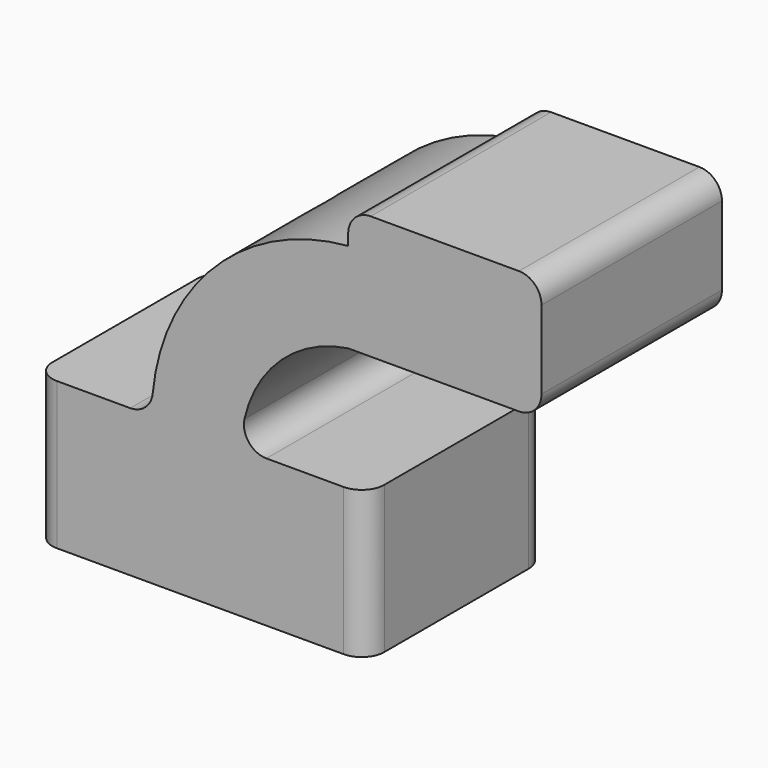
from build123d import *

# Parameters (mm, degrees)
F1_DEPTH = 25.4
F2_R     = 5.08
F3_R     = 5.08
F4_R     = 8.3693802945
F5_DEPTH = 99.314


with BuildPart() as f1:
    # F0 (on Front) → F1 (new body, symmetric)
    with BuildSketch(Plane.XZ):
        Polygon((37.378333509, -16.5805853903), (37.378333509, 16.5805853903), (9.2585918344, 16.5805853903), (-10.9242624321, 16.5805853903), (-37.378333509, 16.5805853903), (-37.378333509, -16.5805853903), align=None)
        with BuildLine():
            Line((-10.9242624321, 16.5805853903), (9.2585918344, 16.5805853903))
            ThreePointArc((9.2585918344, 16.5805853903), (16.1053006485, 34.9702005239), (33.311298198, 44.4046594203))
            Line((33.311298198, 44.4046594203), (33.311298198, 64.7116564196))
            ThreePointArc((33.311298198, 64.7116564196), (1.814383096, 49.2661510986), (-10.9242624321, 16.5805853903))
        make_face()
        with BuildLine():
            Line((33.311298198, 72.2287222743), (33.311298198, 64.7116564196))
            ThreePointArc((33.311298198, 64.7116564196), (57.7910346378, 60.35800431), (76.8620222807, 44.4046594203))
            Line((76.8620222807, 44.4046594203), (76.8620222807, 72.2287222743))
            Line((76.8620222807, 72.2287222743), (33.311298198, 72.2287222743))
        make_face()
        with BuildLine():
            Line((33.311298198, 64.7116564196), (33.311298198, 44.4046594203))
            Line((33.311298198, 44.4046594203), (76.8620222807, 44.4046594203))
            ThreePointArc((76.8620222807, 44.4046594203), (57.7910346378, 60.35800431), (33.311298198, 64.7116564196))
        make_face()
    extrude(amount=F1_DEPTH, both=True)

    # F2
    f2_edges = [f1.edges().sort_by_distance(p)[0] for p in [
        (-37.378334, -25.4, 0),
        (37.378334, -25.4, 0),
        (37.378334, 25.4, 0),
        (-37.378334, 25.4, 0),
    ]]
    fillet(f2_edges, radius=F2_R)

    # F3
    f3_edges = [f1.edges().sort_by_distance(p)[0] for p in [
        (9.258592, 0, 16.580585),
        (-10.924262, 0, 16.580585),
        (33.311298, 0, 72.228722),
        (76.862022, 0, 72.228722),
        (76.862022, 0, 44.404659),
    ]]
    fillet(f3_edges, radius=F3_R)

    # F4 (on face) → F5 (cut)
    with BuildSketch(Plane(origin=(0, 0, -16.5805853903), x_dir=(1, 0, 0), z_dir=(0, 0, -1))):
        Circle(F4_R)
    extrude(amount=-F5_DEPTH, mode=Mode.SUBTRACT)


solid = f1.part
